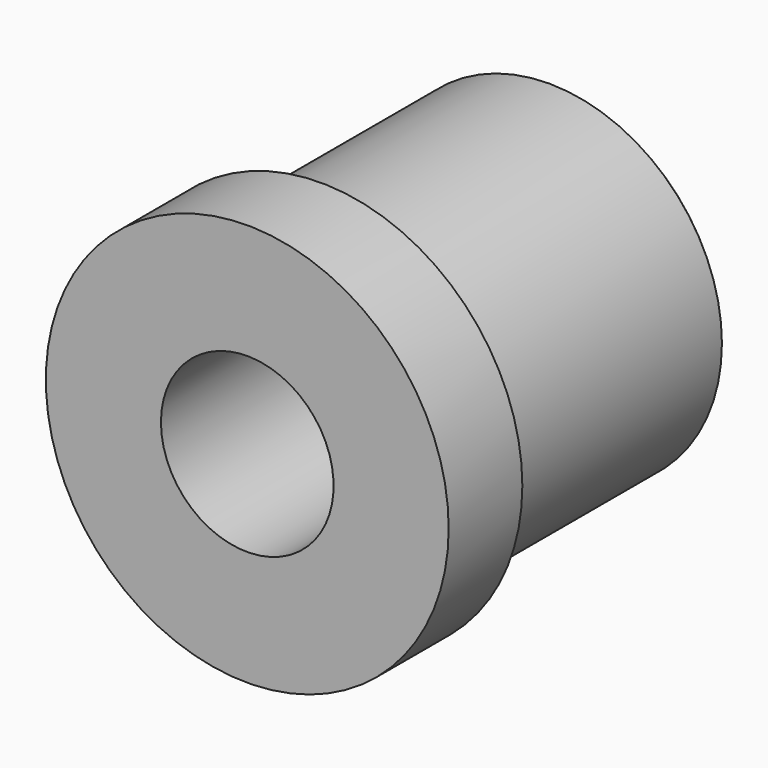
from build123d import *

# Parameters (mm, degrees)
F0_R     = 44.45
F1_DEPTH = 20.32
F2_R     = 38.1
F3_DEPTH = 63.5
F4_SIZE  = 0.508
F6_D     = 38.1


with BuildPart() as f1:
    # F0 (on Front) → F1 (new body)
    with BuildSketch(Plane.XZ):
        Circle(F0_R)
    extrude(amount=F1_DEPTH)

    # F2 (on face) → F3 (join)
    with BuildSketch(Plane(origin=(0, 0, 0), x_dir=(-1, 0, 0), z_dir=(0, 1, 0))):
        Circle(F2_R)
    extrude(amount=F3_DEPTH)

    # F4
    f4_edges = [f1.edges().sort_by_distance(p)[0] for p in [
        (38.1, 63.5, 0),
    ]]
    chamfer(f4_edges, length=F4_SIZE)

    # F6 (through all)
    with Locations(Plane.XZ.offset(20.32)):
        with Locations((0, 0)):
            Hole(F6_D / 2)


solid = f1.part
